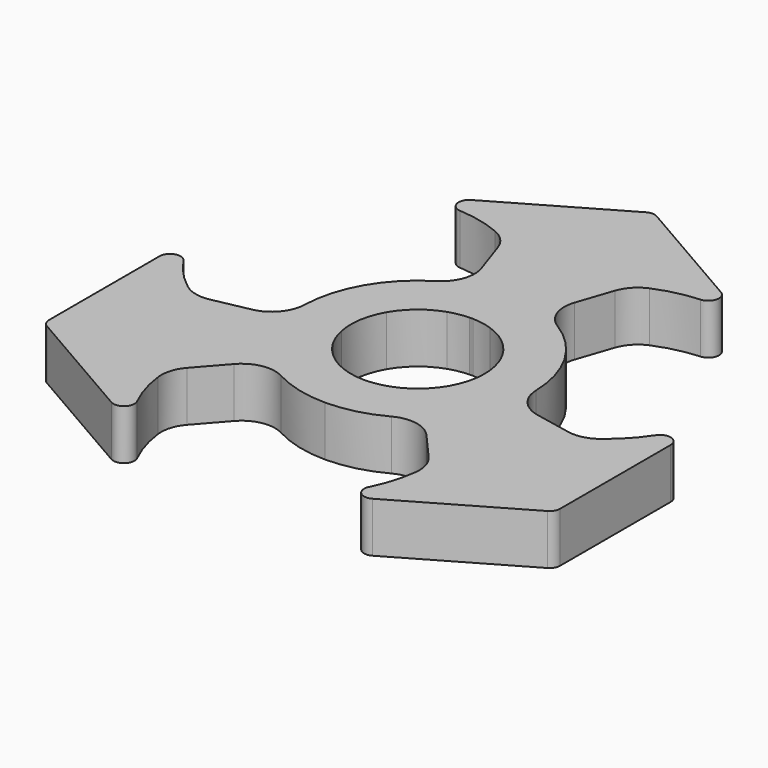
from build123d import *

# Parameters (mm, degrees)
F1_DEPTH = 4.7625
F2_R     = 3.175
F3_R     = 1


with BuildPart() as f1:
    # F0 (on Top) → F1 (new body)
    with BuildSketch(Plane.XY):
        with BuildLine():
            ThreePointArc((-0.4726846942, 10.989839361), (-0.236396943, 10.9974595469), (0, 11))
            Line((0, 11), (0, 28.0095709595))
            Line((0, 28.0095709595), (-5.969, 17.6709596891))
            ThreePointArc((-5.969, 17.6709596891), (-2.6150512525, 14.8287618807), (-0.4726846942, 10.989839361))
        make_face()
        with BuildLine():
            ThreePointArc((0, 11), (0.236396943, 10.9974595469), (0.4726846942, 10.989839361))
            ThreePointArc((0.4726846942, 10.989839361), (2.6150512525, 14.8287618807), (5.969, 17.6709596891))
            Line((5.969, 17.6709596891), (0, 28.0095709595))
            Line((0, 28.0095709595), (0, 11))
        make_face()
        with BuildLine():
            Line((-18.288, -3.6661742094), (-24.257, -14.0047854797))
            Line((-24.257, -14.0047854797), (-9.5262794416, -5.5))
            ThreePointArc((-9.5262794416, -5.5), (-9.6422778162, -5.2940040154), (-9.7538224172, -5.0855627274))
            ThreePointArc((-9.7538224172, -5.0855627274), (-14.1496101216, -5.1496801235), (-18.288, -3.6661742094))
        make_face()
        with BuildLine():
            Line((-9.5262794416, -5.5), (-24.257, -14.0047854797))
            Line((-24.257, -14.0047854797), (-12.319, -14.0047854797))
            ThreePointArc((-12.319, -14.0047854797), (-11.5345588691, -9.6790817572), (-9.281137723, -5.9042766336))
            ThreePointArc((-9.281137723, -5.9042766336), (-9.4058808732, -5.7034555315), (-9.5262794416, -5.5))
        make_face()
        with BuildLine():
            Line((24.257, -14.0047854797), (9.5262794416, -5.5))
            ThreePointArc((9.5262794416, -5.5), (9.4058808732, -5.7034555315), (9.281137723, -5.9042766336))
            ThreePointArc((9.281137723, -5.9042766336), (11.5345588691, -9.6790817572), (12.319, -14.0047854797))
            Line((12.319, -14.0047854797), (24.257, -14.0047854797))
        make_face()
        with BuildLine():
            ThreePointArc((18.288, -3.6661742094), (14.1496101216, -5.1496801235), (9.7538224172, -5.0855627274))
            ThreePointArc((9.7538224172, -5.0855627274), (9.6422778162, -5.2940040154), (9.5262794416, -5.5))
            Line((9.5262794416, -5.5), (24.257, -14.0047854797))
            Line((24.257, -14.0047854797), (18.288, -3.6661742094))
        make_face()
        with BuildLine():
            ThreePointArc((-6.2261252968, -1.2481441375), (-6.2659575333, 1.0296971356), (-5.499261314, 3.175))
            Line((-5.499261314, 3.175), (-9.5262794416, 5.5))
            ThreePointArc((-9.5262794416, 5.5), (-10.8544146246, 1.7837273215), (-10.7854139, -2.1621394509))
            Line((-10.7854139, -2.1621394509), (-6.2261252968, -1.2481441375))
        make_face()
        with BuildLine():
            ThreePointArc((-2.0321381177, 6.016054743), (-1.115007867, 6.2513404528), (-0.1730877259, 6.3476405569))
            ThreePointArc((-0.1730877259, 6.3476405569), (-0.1672424774, 7.7590154524), (0, 9.1604587143))
            ThreePointArc((0, 9.1604587143), (-0.2012173242, 10.0842248201), (-0.4726846942, 10.989839361))
            ThreePointArc((-0.4726846942, 10.989839361), (-2.0165835906, 10.8135743685), (-3.520239259, 10.4215121532))
            Line((-3.520239259, 10.4215121532), (-2.0321381177, 6.016054743))
        make_face()
        with BuildLine():
            ThreePointArc((0.1730877259, 6.3476405569), (1.115007867, 6.2513404528), (2.0321381177, 6.016054743))
            Line((2.0321381177, 6.016054743), (3.520239259, 10.4215121532))
            ThreePointArc((3.520239259, 10.4215121532), (2.0165835906, 10.8135743685), (0.4726846942, 10.989839361))
            ThreePointArc((0.4726846942, 10.989839361), (0.2012173242, 10.0842248201), (0, 9.1604587143))
            ThreePointArc((0, 9.1604587143), (0.1427825837, 8.0856215938), (0.1905, 7.0023927399))
            ThreePointArc((0.1905, 7.0023927399), (0.1861461621, 6.6749009047), (0.1730877259, 6.3476405569))
        make_face()
        with BuildLine():
            ThreePointArc((5.499261314, 3.175), (6.1336289969, 1.6435009364), (6.35, 0))
            ThreePointArc((6.35, 0), (6.3189554372, -0.6271380889), (6.2261252968, -1.2481441375))
            Line((6.2261252968, -1.2481441375), (10.7854139, -2.1621394509))
            ThreePointArc((10.7854139, -2.1621394509), (10.9462220172, -1.0863809414), (11, 0))
            ThreePointArc((11, 0), (10.6251840892, 2.8470094961), (9.5262794416, 5.5))
            Line((9.5262794416, 5.5), (5.499261314, 3.175))
        make_face()
        with BuildLine():
            ThreePointArc((4.1939871791, -4.7679106054), (2.241234889, -5.9413269707), (0, -6.35))
            Line((0, -6.35), (0, -11))
            ThreePointArc((0, -11), (3.8824541385, -10.2920624689), (7.265174641, -8.2593727023))
            Line((7.265174641, -8.2593727023), (4.1939871791, -4.7679106054))
        make_face()
        with BuildLine():
            ThreePointArc((-4.1939871791, -4.7679106054), (-4.8563157063, -4.0912953646), (-5.4106741134, -3.3237186462))
            ThreePointArc((-5.4106741134, -3.3237186462), (-6.6358832514, -4.0243439602), (-7.9331899569, -4.5802293571))
            ThreePointArc((-7.9331899569, -4.5802293571), (-8.6325862096, -5.2163717244), (-9.281137723, -5.9042766336))
            ThreePointArc((-9.281137723, -5.9042766336), (-8.3565383135, -7.1531998025), (-7.265174641, -8.2593727023))
            Line((-7.265174641, -8.2593727023), (-4.1939871791, -4.7679106054))
        make_face()
        with BuildLine():
            Line((-9.5262794416, -5.5), (-7.9331899569, -4.5802293571))
            ThreePointArc((-7.9331899569, -4.5802293571), (-8.8338035337, -4.8678530956), (-9.7538224172, -5.0855627274))
            ThreePointArc((-9.7538224172, -5.0855627274), (-9.6422778162, -5.2940040154), (-9.5262794416, -5.5))
        make_face()
        with BuildLine():
            ThreePointArc((-9.281137723, -5.9042766336), (-8.6325862096, -5.2163717244), (-7.9331899569, -4.5802293571))
            Line((-7.9331899569, -4.5802293571), (-9.5262794416, -5.5))
            ThreePointArc((-9.5262794416, -5.5), (-9.4058808732, -5.7034555315), (-9.281137723, -5.9042766336))
        make_face()
        with BuildLine():
            Line((-7.9331899569, -4.5802293571), (-5.499261314, -3.175))
            ThreePointArc((-5.499261314, -3.175), (-5.5420264075, -3.0997489089), (-5.5837618393, -3.0239219107))
            ThreePointArc((-5.5837618393, -3.0239219107), (-6.8031257288, -3.7346714922), (-7.9331899569, -4.5802293571))
        make_face()
        with BuildLine():
            ThreePointArc((-5.4106741134, -3.3237186462), (-5.4554745042, -3.2496612029), (-5.499261314, -3.175))
            Line((-5.499261314, -3.175), (-7.9331899569, -4.5802293571))
            ThreePointArc((-7.9331899569, -4.5802293571), (-6.6358832514, -4.0243439602), (-5.4106741134, -3.3237186462))
        make_face()
        with BuildLine():
            ThreePointArc((-0.4726846942, 10.989839361), (-0.2012173242, 10.0842248201), (0, 9.1604587143))
            Line((0, 9.1604587143), (0, 11))
            ThreePointArc((0, 11), (-0.236396943, 10.9974595469), (-0.4726846942, 10.989839361))
        make_face()
        with BuildLine():
            ThreePointArc((0, 9.1604587143), (0.2012173242, 10.0842248201), (0.4726846942, 10.989839361))
            ThreePointArc((0.4726846942, 10.989839361), (0.236396943, 10.9974595469), (0, 11))
            Line((0, 11), (0, 9.1604587143))
        make_face()
        with BuildLine():
            ThreePointArc((-0.1730877259, 6.3476405569), (-0.0865519033, 6.3494101118), (0, 6.35))
            Line((0, 6.35), (0, 9.1604587143))
            ThreePointArc((0, 9.1604587143), (-0.1672424774, 7.7590154524), (-0.1730877259, 6.3476405569))
        make_face()
        with BuildLine():
            ThreePointArc((0, 6.35), (0.0865519033, 6.3494101118), (0.1730877259, 6.3476405569))
            ThreePointArc((0.1730877259, 6.3476405569), (0.1861461621, 6.6749009047), (0.1905, 7.0023927399))
            ThreePointArc((0.1905, 7.0023927399), (0.1427825837, 8.0856215938), (0, 9.1604587143))
            Line((0, 9.1604587143), (0, 6.35))
        make_face()
        with BuildLine():
            ThreePointArc((7.9331899569, -4.5802293571), (6.8031257288, -3.7346714922), (5.5837618393, -3.0239219107))
            ThreePointArc((5.5837618393, -3.0239219107), (5.5420264075, -3.0997489089), (5.499261314, -3.175))
            Line((5.499261314, -3.175), (7.9331899569, -4.5802293571))
        make_face()
        with BuildLine():
            Line((7.9331899569, -4.5802293571), (5.499261314, -3.175))
            ThreePointArc((5.499261314, -3.175), (5.4554745042, -3.2496612029), (5.4106741134, -3.3237186462))
            ThreePointArc((5.4106741134, -3.3237186462), (6.6358832514, -4.0243439602), (7.9331899569, -4.5802293571))
        make_face()
        with BuildLine():
            ThreePointArc((9.7538224172, -5.0855627274), (8.8338035337, -4.8678530956), (7.9331899569, -4.5802293571))
            Line((7.9331899569, -4.5802293571), (9.5262794416, -5.5))
            ThreePointArc((9.5262794416, -5.5), (9.6422778162, -5.2940040154), (9.7538224172, -5.0855627274))
        make_face()
        with BuildLine():
            Line((9.5262794416, -5.5), (7.9331899569, -4.5802293571))
            ThreePointArc((7.9331899569, -4.5802293571), (8.6325862096, -5.2163717244), (9.281137723, -5.9042766336))
            ThreePointArc((9.281137723, -5.9042766336), (9.4058808732, -5.7034555315), (9.5262794416, -5.5))
        make_face()
        with BuildLine():
            ThreePointArc((-9.7538224172, -5.0855627274), (-10.3731219041, -3.6603745659), (-10.7854139, -2.1621394509))
            Line((-10.7854139, -2.1621394509), (-18.288, -3.6661742094))
            ThreePointArc((-18.288, -3.6661742094), (-14.1496101216, -5.1496801235), (-9.7538224172, -5.0855627274))
        make_face()
        with BuildLine():
            ThreePointArc((-7.9331899569, -4.5802293571), (-6.8031257288, -3.7346714922), (-5.5837618393, -3.0239219107))
            ThreePointArc((-5.5837618393, -3.0239219107), (-5.9713235733, -2.1600450882), (-6.2261252968, -1.2481441375))
            Line((-6.2261252968, -1.2481441375), (-10.7854139, -2.1621394509))
            ThreePointArc((-10.7854139, -2.1621394509), (-10.3731219041, -3.6603745659), (-9.7538224172, -5.0855627274))
            ThreePointArc((-9.7538224172, -5.0855627274), (-8.8338035337, -4.8678530956), (-7.9331899569, -4.5802293571))
        make_face()
        with BuildLine():
            Line((-12.319, -14.0047854797), (-7.265174641, -8.2593727023))
            ThreePointArc((-7.265174641, -8.2593727023), (-8.3565383135, -7.1531998025), (-9.281137723, -5.9042766336))
            ThreePointArc((-9.281137723, -5.9042766336), (-11.5345588691, -9.6790817572), (-12.319, -14.0047854797))
        make_face()
        with BuildLine():
            ThreePointArc((12.319, -14.0047854797), (11.5345588691, -9.6790817572), (9.281137723, -5.9042766336))
            ThreePointArc((9.281137723, -5.9042766336), (8.3565383135, -7.1531998025), (7.265174641, -8.2593727023))
            Line((7.265174641, -8.2593727023), (12.319, -14.0047854797))
        make_face()
        with BuildLine():
            ThreePointArc((9.281137723, -5.9042766336), (8.6325862096, -5.2163717244), (7.9331899569, -4.5802293571))
            ThreePointArc((7.9331899569, -4.5802293571), (6.6358832514, -4.0243439602), (5.4106741134, -3.3237186462))
            ThreePointArc((5.4106741134, -3.3237186462), (4.8563157063, -4.0912953646), (4.1939871791, -4.7679106054))
            Line((4.1939871791, -4.7679106054), (7.265174641, -8.2593727023))
            ThreePointArc((7.265174641, -8.2593727023), (8.3565383135, -7.1531998025), (9.281137723, -5.9042766336))
        make_face()
        with BuildLine():
            Line((10.7854139, -2.1621394509), (6.2261252968, -1.2481441375))
            ThreePointArc((6.2261252968, -1.2481441375), (5.9713235733, -2.1600450882), (5.5837618393, -3.0239219107))
            ThreePointArc((5.5837618393, -3.0239219107), (6.8031257288, -3.7346714922), (7.9331899569, -4.5802293571))
            ThreePointArc((7.9331899569, -4.5802293571), (8.8338035337, -4.8678530956), (9.7538224172, -5.0855627274))
            ThreePointArc((9.7538224172, -5.0855627274), (10.3731219041, -3.6603745659), (10.7854139, -2.1621394509))
        make_face()
        with BuildLine():
            Line((18.288, -3.6661742094), (10.7854139, -2.1621394509))
            ThreePointArc((10.7854139, -2.1621394509), (10.3731219041, -3.6603745659), (9.7538224172, -5.0855627274))
            ThreePointArc((9.7538224172, -5.0855627274), (14.1496101216, -5.1496801235), (18.288, -3.6661742094))
        make_face()
        with BuildLine():
            ThreePointArc((2.0321381177, 6.016054743), (4.0247226443, 4.9116298351), (5.499261314, 3.175))
            Line((5.499261314, 3.175), (9.5262794416, 5.5))
            ThreePointArc((9.5262794416, 5.5), (6.9719604861, 8.5083351474), (3.520239259, 10.4215121532))
            Line((3.520239259, 10.4215121532), (2.0321381177, 6.016054743))
        make_face()
        with BuildLine():
            Line((-9.5262794416, 5.5), (-5.499261314, 3.175))
            ThreePointArc((-5.499261314, 3.175), (-4.0247226443, 4.9116298351), (-2.0321381177, 6.016054743))
            Line((-2.0321381177, 6.016054743), (-3.520239259, 10.4215121532))
            ThreePointArc((-3.520239259, 10.4215121532), (-6.9719604861, 8.5083351474), (-9.5262794416, 5.5))
        make_face()
        with BuildLine():
            Line((0, -11), (0, -6.35))
            ThreePointArc((0, -6.35), (-2.241234889, -5.9413269707), (-4.1939871791, -4.7679106054))
            Line((-4.1939871791, -4.7679106054), (-7.265174641, -8.2593727023))
            ThreePointArc((-7.265174641, -8.2593727023), (-3.8824541385, -10.2920624689), (0, -11))
        make_face()
        with BuildLine():
            ThreePointArc((-3.520239259, 10.4215121532), (-2.0165835906, 10.8135743685), (-0.4726846942, 10.989839361))
            ThreePointArc((-0.4726846942, 10.989839361), (-2.6150512525, 14.8287618807), (-5.969, 17.6709596891))
            Line((-5.969, 17.6709596891), (-3.520239259, 10.4215121532))
        make_face()
        with BuildLine():
            ThreePointArc((0.4726846942, 10.989839361), (2.0165835906, 10.8135743685), (3.520239259, 10.4215121532))
            Line((3.520239259, 10.4215121532), (5.969, 17.6709596891))
            ThreePointArc((5.969, 17.6709596891), (2.6150512525, 14.8287618807), (0.4726846942, 10.989839361))
        make_face()
        with BuildLine():
            Line((-24.257, 4.8443267654), (-24.257, -14.0047854797))
            Line((-24.257, -14.0047854797), (-18.288, -3.6661742094))
            ThreePointArc((-18.288, -3.6661742094), (-22.2141280276, -0.0713522576), (-24.257, 4.8443267654))
        make_face()
        with BuildLine():
            Line((-12.319, -14.0047854797), (-24.257, -14.0047854797))
            Line((-24.257, -14.0047854797), (-7.9331899569, -23.4293416023))
            ThreePointArc((-7.9331899569, -23.4293416023), (-11.1688568815, -19.202323066), (-12.319, -14.0047854797))
        make_face()
        with BuildLine():
            Line((7.9331899569, -23.4293416023), (24.257, -14.0047854797))
            Line((24.257, -14.0047854797), (12.319, -14.0047854797))
            ThreePointArc((12.319, -14.0047854797), (11.1688568815, -19.202323066), (7.9331899569, -23.4293416023))
        make_face()
        with BuildLine():
            ThreePointArc((24.257, 4.8443267654), (22.2141280276, -0.0713522576), (18.288, -3.6661742094))
            Line((18.288, -3.6661742094), (24.257, -14.0047854797))
            Line((24.257, -14.0047854797), (24.257, 4.8443267654))
        make_face()
        with BuildLine():
            Line((0, 28.0095709595), (5.969, 17.6709596891))
            ThreePointArc((5.969, 17.6709596891), (11.0452711461, 19.2736753236), (16.3238100431, 18.5850148369))
            Line((16.3238100431, 18.5850148369), (0, 28.0095709595))
        make_face()
        with BuildLine():
            Line((-5.969, 17.6709596891), (0, 28.0095709595))
            Line((0, 28.0095709595), (-16.3238100431, 18.5850148369))
            ThreePointArc((-16.3238100431, 18.5850148369), (-11.0452711461, 19.2736753236), (-5.969, 17.6709596891))
        make_face()
    extrude(amount=F1_DEPTH)

    # F2
    f2_edges = [f1.edges().sort_by_distance(p)[0] for p in [
        (-5.969, 17.67096, 2.38125),
        (5.969, 17.67096, 2.38125),
        (-7.265175, -8.259373, 2.38125),
        (7.265175, -8.259373, 2.38125),
        (-18.288, -3.666174, 2.38125),
        (18.288, -3.666174, 2.38125),
        (3.520239, 10.421512, 2.38125),
        (10.785414, -2.162139, 2.38125),
        (-12.319, -14.004785, 2.38125),
        (12.319, -14.004785, 2.38125),
        (-10.785414, -2.162139, 2.38125),
        (-3.520239, 10.421512, 2.38125),
    ]]
    fillet(f2_edges, radius=F2_R)

    # F3
    f3_edges = [f1.edges().sort_by_distance(p)[0] for p in [
        (-24.257, 4.844327, 2.38125),
        (24.257, 4.844327, 2.38125),
        (16.32381, 18.585015, 2.38125),
        (-16.32381, 18.585015, 2.38125),
        (7.93319, -23.429342, 2.38125),
        (-7.93319, -23.429342, 2.38125),
        (0, 28.009571, 2.38125),
        (24.257, -14.004785, 2.38125),
        (-24.257, -14.004785, 2.38125),
    ]]
    fillet(f3_edges, radius=F3_R)


solid = f1.part
